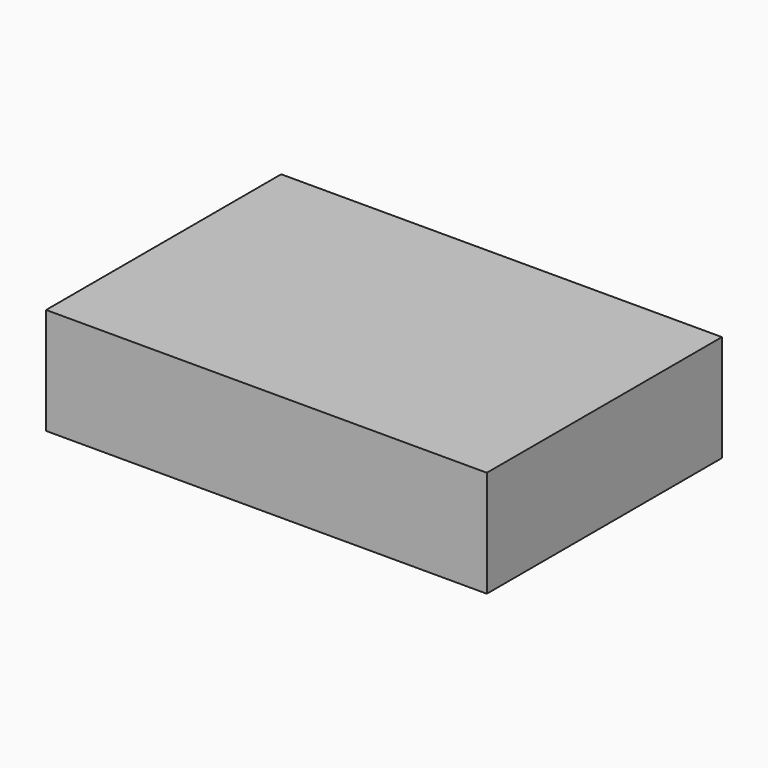
from build123d import *

# Parameters (mm, degrees)
F0_W     = 120
F0_H     = 80
F1_DEPTH = 29
F2_W     = 118
F2_H     = 78
F3_DEPTH = 28


with BuildPart() as f1:
    # F0 (on Top) → F1 (new body)
    with BuildSketch(Plane.XY):
        Rectangle(F0_W, F0_H)
    extrude(amount=F1_DEPTH)

    # F2 (on Top) → F3 (cut)
    with BuildSketch(Plane.XY):
        Rectangle(F2_W, F2_H)
    extrude(amount=F3_DEPTH, mode=Mode.SUBTRACT)


solid = f1.part
